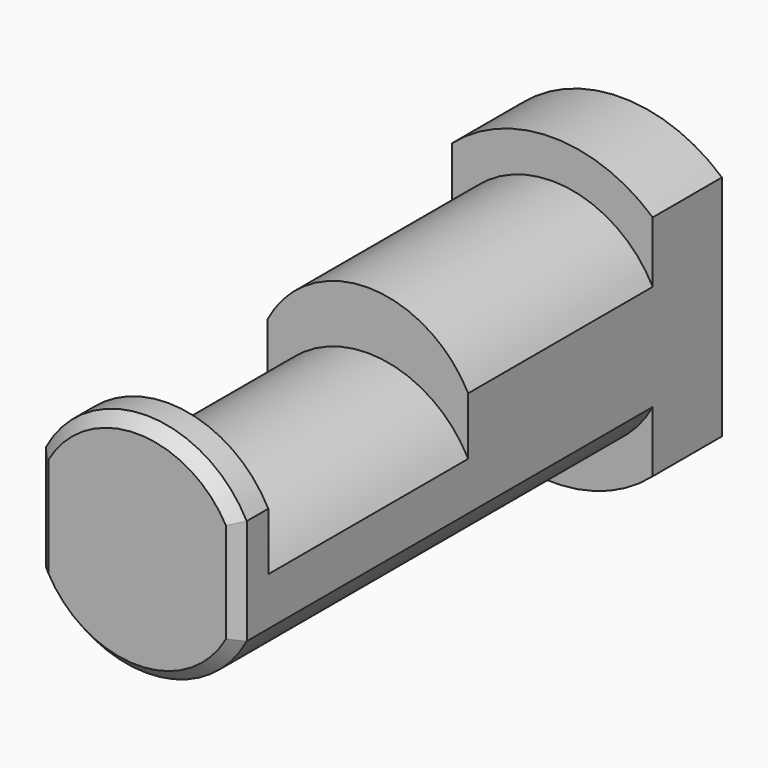
from build123d import *

# Parameters (mm, degrees)
PAD001002_DEPTH      = 17
PAD001002_DEPTH_BACK = 10
PAD001003_DEPTH      = 4.5
SKETCH006_W          = 10
SKETCH006_H          = 13
POCKET002_DEPTH      = 10.440828
CHAMFER_SIZE         = 0.6
PAD001004_DEPTH      = 13


with BuildPart() as part:
    # Sketch004 → Pad001002 (new body, two sides)
    with BuildSketch(Plane.XZ.offset(15)) as pad001002_sk:
        with BuildLine():
            ThreePointArc((-5.219914, 117.25), (0, 114.1), (5.219914, 117.25))
            Line((5.219914, 117.25), (5.219914, 122.75))
            ThreePointArc((5.219914, 122.75), (0, 125.9), (-5.219914, 122.75))
            Line((-5.219914, 122.75), (-5.219914, 117.25))
        make_face()
    extrude(amount=PAD001002_DEPTH)
    extrude(pad001002_sk.sketch, amount=-PAD001002_DEPTH_BACK)

    # Sketch005 → Pad001003 (new body)
    with BuildSketch(Plane(origin=(0, -5, 0), x_dir=(1, 0, 0), z_dir=(0, 1, 0))):
        with BuildLine():
            ThreePointArc((5.219914, -114.070202), (0, -112.1), (-5.219914, -114.070202))
            Line((-5.219914, -125.929798), (-5.219914, -114.070202))
            ThreePointArc((-5.219914, -125.929798), (0, -127.9), (5.219914, -125.929798))
            Line((5.219914, -114.070202), (5.219914, -125.929798))
        make_face()
    extrude(amount=PAD001003_DEPTH)

    # Sketch006 → Pocket002 (cut, through all)
    with BuildSketch(Plane(origin=(5.219914, -15, 0), x_dir=(0, 0, 1), z_dir=(1, 0, 0))):
        with Locations((124.75, 8.5)):
            Rectangle(SKETCH006_W, SKETCH006_H)
    extrude(amount=-POCKET002_DEPTH, mode=Mode.SUBTRACT)

    # Chamfer
    chamfer_edges = [part.edges().sort_by_distance(p)[0] for p in [
        (0, -32, 114.1),
        (5.219914, -32, 120),
        (0, -32, 125.9),
        (-5.219914, -32, 120),
    ]]
    chamfer(chamfer_edges, length=CHAMFER_SIZE)

    # Sketch007 → Pad001004 (new body)
    with BuildSketch(Plane.XZ.offset(17)):
        with BuildLine():
            ThreePointArc((5.219914, 119.75), (0, 122.9), (-5.219914, 119.75))
            Line((-5.219914, 119.75), (5.219914, 119.75))
        make_face()
    extrude(amount=PAD001004_DEPTH)


solid = part.part
